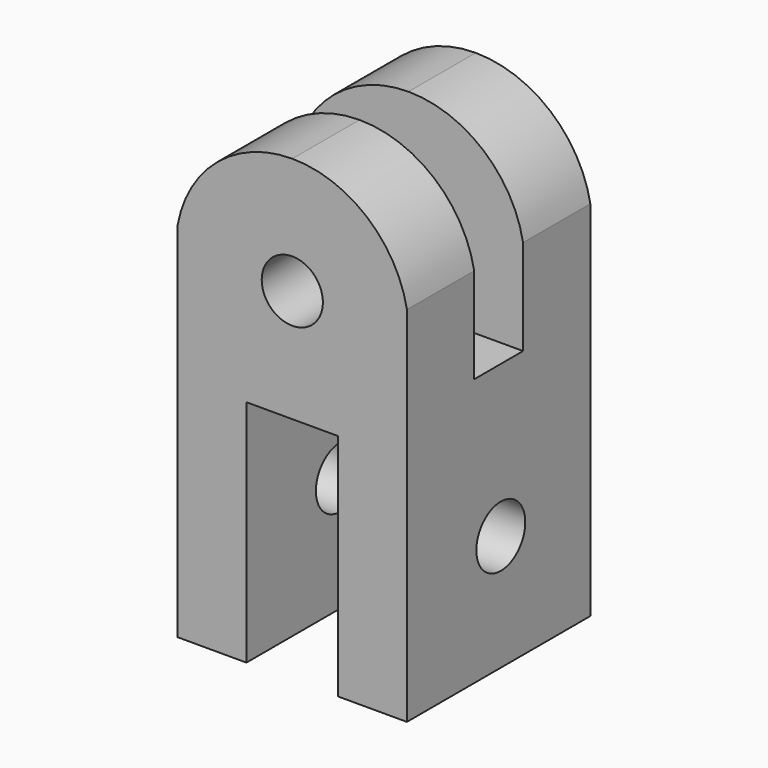
from build123d import *

# Parameters (mm, degrees)
F1_DEPTH = 30
F2_R     = 4
F2_W     = 8
F2_H     = 50
F3_DEPTH = 30.001
F4_R     = 4
F5_DEPTH = 30.001
F7_DEPTH = 30.001


with BuildPart() as f1:
    # F0 (on Front) → F1 (new body)
    with BuildSketch(Plane.XZ):
        Polygon((15, 30), (-15, 30), (-15, -30), (-6, -30), (-6, 0), (6, 0), (6, -30), (15, -30), align=None)
    extrude(amount=F1_DEPTH)

    # F2 (on face) → F3 (cut, through all)
    with BuildSketch(Plane(origin=(-15, 0, 0), x_dir=(0, -1, 0), z_dir=(-1, 0, 0))):
        with Locations((14.645997, -14.849633)):
            Circle(F2_R)
        with Locations((15, 30)):
            Rectangle(F2_W, F2_H)
    extrude(amount=-F3_DEPTH, mode=Mode.SUBTRACT)

    # F4 (on face) → F5 (cut, through all)
    with BuildSketch(Plane(origin=(0, 0, 0), x_dir=(-1, 0, 0), z_dir=(0, 1, 0))):
        with Locations((0, 14.751268)):
            Circle(F4_R)
    extrude(amount=-F5_DEPTH, mode=Mode.SUBTRACT)

    # F6 (on face) → F7 (cut, through all)
    with BuildSketch(Plane(origin=(0, 0, 0), x_dir=(-1, 0, 0), z_dir=(0, 1, 0))):
        with BuildLine():
            ThreePointArc((0, 30), (9.76466, 26.463451), (15, 17.494227))
            Line((15, 17.494227), (15, 30))
            Line((15, 30), (0, 30))
        make_face()
        with BuildLine():
            ThreePointArc((-15, 17.494227), (-9.76466, 26.463451), (0, 30))
            Line((0, 30), (-15, 30))
            Line((-15, 30), (-15, 17.494227))
        make_face()
    extrude(amount=-F7_DEPTH, mode=Mode.SUBTRACT)


solid = f1.part
